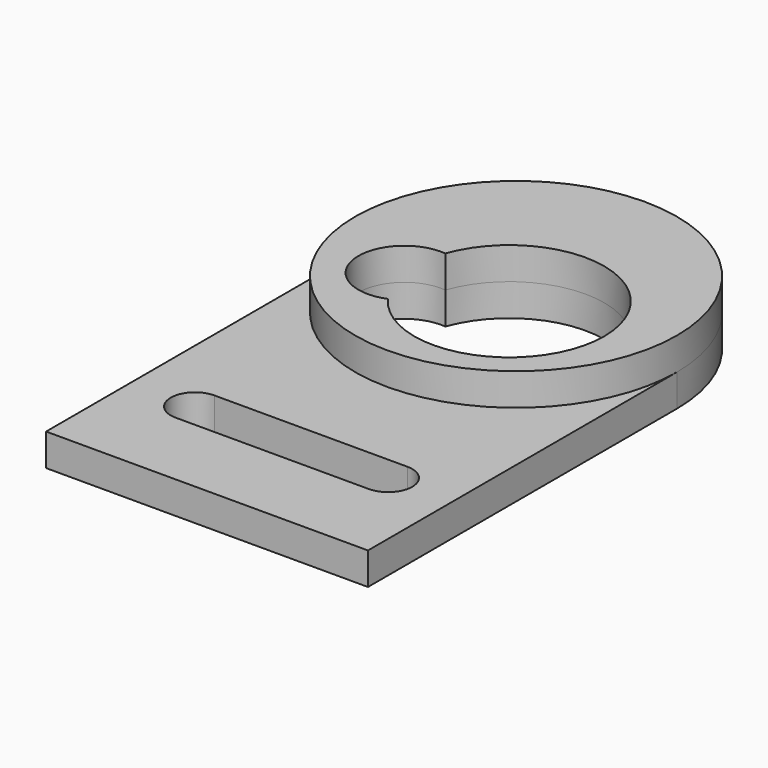
from build123d import *

# Parameters (mm, degrees)
F1_DEPTH = 2
F2_DEPTH = 2


with BuildPart() as f1:
    # F0 (on Top) → F1 (new body)
    with BuildSketch(Plane.XY):
        with BuildLine():
            ThreePointArc((-66.963138, 27.828365), (-56.963138, 17.828365), (-46.963138, 27.828365))
            ThreePointArc((-46.963138, 27.828365), (-56.963138, 37.828365), (-66.963138, 27.828365))
        make_face()
        with BuildLine():
            ThreePointArc((-61.125627, 27.541324), (-54.562637, 31.372043), (-49.668803, 25.55847))
            ThreePointArc((-49.668803, 25.55847), (-53.732469, 19.951521), (-60.325711, 22.068222))
            ThreePointArc((-60.325711, 22.068222), (-64.22682, 24.293066), (-61.125627, 27.541324))
        make_face(mode=Mode.SUBTRACT)
    extrude(amount=F1_DEPTH)

    # F0 (on Top) → F2 (join)
    with BuildSketch(Plane.XY):
        with BuildLine():
            ThreePointArc((-66.963138, 27.828365), (-56.963138, 17.828365), (-46.963138, 27.828365))
            ThreePointArc((-46.963138, 27.828365), (-56.963138, 37.828365), (-66.963138, 27.828365))
        make_face()
        with BuildLine():
            ThreePointArc((-61.125627, 27.541324), (-54.562637, 31.372043), (-49.668803, 25.55847))
            ThreePointArc((-49.668803, 25.55847), (-53.732469, 19.951521), (-60.325711, 22.068222))
            ThreePointArc((-60.325711, 22.068222), (-64.22682, 24.293066), (-61.125627, 27.541324))
        make_face(mode=Mode.SUBTRACT)
        with BuildLine():
            Line((-46.963138, 3.828365), (-46.963138, 27.828365))
            ThreePointArc((-46.963138, 27.828365), (-56.963138, 17.828365), (-66.963138, 27.828365))
            Line((-66.963138, 27.828365), (-66.963138, 3.828365))
            Line((-66.963138, 3.828365), (-46.963138, 3.828365))
        make_face()
        with BuildLine():
            ThreePointArc((-62.963138, 8.892377), (-64.463138, 10.392377), (-62.963138, 11.892377))
            Line((-62.963138, 11.892377), (-50.963138, 11.892377))
            ThreePointArc((-50.963138, 11.892377), (-49.463138, 10.392377), (-50.963138, 8.892377))
            Line((-50.963138, 8.892377), (-62.963138, 8.892377))
        make_face(mode=Mode.SUBTRACT)
    extrude(amount=-F2_DEPTH)


solid = f1.part
